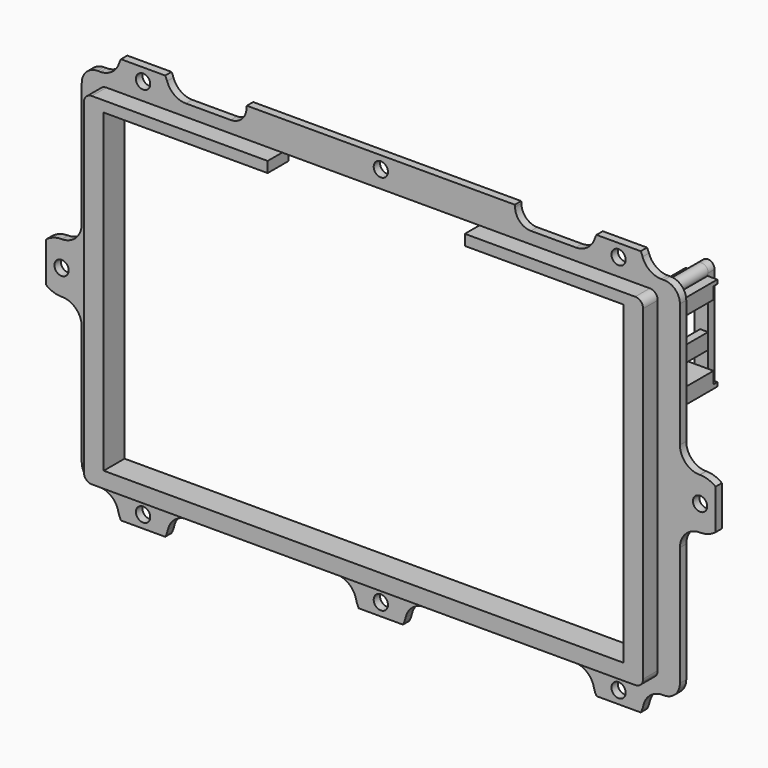
from build123d import *

# Parameters (mm, degrees)
F0_W      = 245.11
F0_H      = 152.4
F0_R      = 2.286
F1_DEPTH  = 2.54
F3_DEPTH  = 5.842
F4_W      = 245.11
F4_H      = 152.4
F5_DEPTH  = 25.4
F6_R      = 2.54
F7_W      = 258.2781612873
F7_H      = 175.8654415607
F7_W_2    = 214.5792
F7_H_2    = 130.1496
F8_DEPTH  = 8.383
F9_W      = 10.16
F9_H      = 3.81
F10_DEPTH = 13.462
F12_DEPTH = 14.986
F13_R     = 0.889
F14_DEPTH = 8.89
F15_R     = 0.889
F16_DEPTH = 2.54
F17_W     = 2.54
F17_H     = 5.08
F18_DEPTH = 10.16


with BuildPart() as f1:
    # F0 (on Front) → F1 (new body)
    with BuildSketch(Plane.XZ):
        Rectangle(F0_W, F0_H)
        with Locations((-76.2, -61.087)):
            Circle(F0_R, mode=Mode.SUBTRACT)
        with Locations((0, -61.087)):
            Circle(F0_R, mode=Mode.SUBTRACT)
        with Locations((76.2, -61.087)):
            Circle(F0_R, mode=Mode.SUBTRACT)
        with Locations((-102.32136, 0)):
            Circle(F0_R, mode=Mode.SUBTRACT)
        Polygon((82.3976, -48.9458), (-84.1502, -48.9458), (-84.1502, 52.1208), (-31.5976, 52.1208), (-31.5976, 55.5498), (31.5976, 55.5498), (31.5976, 52.1208), (82.3976, 52.1208), align=None, mode=Mode.SUBTRACT)
        with Locations((-76.2, 61.087)):
            Circle(F0_R, mode=Mode.SUBTRACT)
        with Locations((102.32136, 0)):
            Circle(F0_R, mode=Mode.SUBTRACT)
        with Locations((0, 61.087)):
            Circle(F0_R, mode=Mode.SUBTRACT)
        with Locations((76.2, 61.087)):
            Circle(F0_R, mode=Mode.SUBTRACT)
    extrude(amount=F1_DEPTH)

    # F2 (on face) → F3 (join)
    with BuildSketch(Plane.XZ.offset(2.54)):
        Polygon((-90.5002, -54.0258), (88.7476, -54.0258), (88.7476, 55.5498), (31.5976, 55.5498), (31.5976, 52.1208), (82.3976, 52.1208), (82.3976, -48.9458), (-84.1502, -48.9458), (-84.1502, 52.1208), (-31.5976, 52.1208), (-31.5976, 55.5498), (-90.5002, 55.5498), align=None)
    extrude(amount=F3_DEPTH)

    # F4 (on face) → F5 (cut)
    with BuildSketch(Plane.XZ.offset(2.54)):
        Rectangle(F4_W, F4_H)
        with BuildLine():
            ThreePointArc((-95.8596, 54.2798), (-94.3717024484, 57.8719024484), (-90.7796, 59.3598))
            Line((-90.7796, 59.3598), (-89.9201386349, 59.3598))
            ThreePointArc((-89.9201386349, 59.3598), (-86.2155741199, 60.5524070778), (-83.9025339705, 63.6822561404))
            ThreePointArc((-83.9025339705, 63.6822561404), (-76.2, 69.215), (-68.4974660295, 63.6822561404))
            ThreePointArc((-68.4974660295, 63.6822561404), (-66.1844258801, 60.5524070778), (-62.4798613651, 59.3598))
            Line((-62.4798613651, 59.3598), (-48.1076, 59.3598))
            ThreePointArc((-48.1076, 59.3598), (-44.5154975516, 60.8476975516), (-43.0276, 64.4398))
            ThreePointArc((-43.0276, 64.4398), (-42.2836512242, 66.2358512242), (-40.4876, 66.9798))
            Line((-40.4876, 66.9798), (8.6505254151, 66.9798))
            Line((8.6505254151, 66.9798), (40.4876, 66.9798))
            ThreePointArc((40.4876, 66.9798), (42.2836512242, 66.2358512242), (43.0276, 64.4398))
            ThreePointArc((43.0276, 64.4398), (44.5154975516, 60.8476975516), (48.1076, 59.3598))
            Line((48.1076, 59.3598), (62.4798613651, 59.3598))
            ThreePointArc((62.4798613651, 59.3598), (66.1844258801, 60.5524070778), (68.4974660295, 63.6822561404))
            ThreePointArc((68.4974660295, 63.6822561404), (76.2, 69.215), (83.9025339705, 63.6822561404))
            ThreePointArc((83.9025339705, 63.6822561404), (86.2155741199, 60.5524070778), (89.9201386349, 59.3598))
            Line((89.9201386349, 59.3598), (90.7796, 59.3598))
            ThreePointArc((90.7796, 59.3598), (94.3717024484, 57.8719024484), (95.8596, 54.2798))
            Line((95.8596, 54.2798), (95.8596, 14.4775686392))
            ThreePointArc((95.8596, 14.4775686392), (97.6933797922, 10.0136852363), (102.1355858376, 8.128))
            Line((102.1355858376, 8.128), (102.2836141624, 8.128))
            Line((102.2836141624, 8.128), (102.32136, 8.128))
            ThreePointArc((102.32136, 8.128), (110.44936, 0), (102.32136, -8.128))
            Line((102.32136, -8.128), (102.2836141624, -8.128))
            Line((102.2836141624, -8.128), (102.1355858376, -8.128))
            ThreePointArc((102.1355858376, -8.128), (97.6933797922, -10.0136852363), (95.8596, -14.4775686392))
            Line((95.8596, -14.4775686392), (95.8596, -52.7558))
            ThreePointArc((95.8596, -52.7558), (94.3717024484, -56.3479024484), (90.7796, -57.8358))
            Line((90.7796, -57.8358), (90.3424864349, -57.8358))
            ThreePointArc((90.3424864349, -57.8358), (86.3617785722, -59.2384305058), (84.1396415073, -62.826677193))
            ThreePointArc((84.1396415073, -62.826677193), (76.2, -69.215), (68.2603584927, -62.826677193))
            ThreePointArc((68.2603584927, -62.826677193), (66.0382214278, -59.2384305058), (62.0575135651, -57.8358))
            Line((62.0575135651, -57.8358), (14.1424864349, -57.8358))
            ThreePointArc((14.1424864349, -57.8358), (10.1617785722, -59.2384305058), (7.9396415073, -62.826677193))
            ThreePointArc((7.9396415073, -62.826677193), (0, -69.215), (-7.9396415073, -62.826677193))
            ThreePointArc((-7.9396415073, -62.826677193), (-10.1617785722, -59.2384305058), (-14.1424864349, -57.8358))
            Line((-14.1424864349, -57.8358), (-62.0575135651, -57.8358))
            ThreePointArc((-62.0575135651, -57.8358), (-66.0382214278, -59.2384305058), (-68.2603584927, -62.826677193))
            ThreePointArc((-68.2603584927, -62.826677193), (-76.2, -69.215), (-84.1396415073, -62.826677193))
            ThreePointArc((-84.1396415073, -62.826677193), (-86.3617785722, -59.2384305058), (-90.3424864349, -57.8358))
            Line((-90.3424864349, -57.8358), (-90.7796, -57.8358))
            ThreePointArc((-90.7796, -57.8358), (-94.3717024484, -56.3479024484), (-95.8596, -52.7558))
            Line((-95.8596, -52.7558), (-95.8596, -14.4775686392))
            ThreePointArc((-95.8596, -14.4775686392), (-97.6933797922, -10.0136852363), (-102.1355858376, -8.128))
            Line((-102.1355858376, -8.128), (-102.2836141624, -8.128))
            Line((-102.2836141624, -8.128), (-102.32136, -8.128))
            ThreePointArc((-102.32136, -8.128), (-110.44936, 0), (-102.32136, 8.128))
            Line((-102.32136, 8.128), (-102.2836141624, 8.128))
            Line((-102.2836141624, 8.128), (-102.1355858376, 8.128))
            ThreePointArc((-102.1355858376, 8.128), (-97.6933797922, 10.0136852363), (-95.8596, 14.4775686392))
            Line((-95.8596, 14.4775686392), (-95.8596, 54.2798))
        make_face(mode=Mode.SUBTRACT)
    extrude(amount=-F5_DEPTH, mode=Mode.SUBTRACT)

    # F6
    f6_edges = [f1.edges().sort_by_distance(p)[0] for p in [
        (-90.5002, -5.461, 55.5498),
        (-90.5002, -5.461, -54.0258),
        (88.7476, -5.461, 55.5498),
        (88.7476, -5.461, -54.0258),
    ]]
    fillet(f6_edges, radius=F6_R)

    # F7 (on Front) → F8 (cut, through all)
    with BuildSketch(Plane.XZ):
        Rectangle(F7_W, F7_H)
        Rectangle(F7_W_2, F7_H_2, mode=Mode.SUBTRACT)
    extrude(amount=F8_DEPTH, mode=Mode.SUBTRACT)

    # F9 (on face) → F10 (join)
    with BuildSketch(Plane(origin=(0, 0, 0), x_dir=(-1, 0, 0), z_dir=(0, 1, 0))):
        with Locations((-88.7476, 50.2158)):
            Rectangle(F9_W, F9_H)
        with Locations((-88.7476, 26.3398)):
            Rectangle(F9_W, F9_H)
    extrude(amount=F10_DEPTH)

    # F11 (on face) → F12 (join)
    with BuildSketch(Plane(origin=(0, 0, 0), x_dir=(-1, 0, 0), z_dir=(0, 1, 0))):
        with BuildLine():
            Line((-90.7150755399, 53.3908), (-93.8276, 53.3908))
            Line((-93.8276, 53.3908), (-93.8276, 52.1208))
            Line((-93.8276, 52.1208), (-88.7476, 52.1208))
            ThreePointArc((-88.7476, 52.1208), (-89.9184821461, 52.4658771792), (-90.7150755399, 53.3908))
        make_face()
        with BuildLine():
            ThreePointArc((-86.5886, 54.2798), (-89.2022984217, 56.3903758326), (-90.7150755399, 53.3908))
            Line((-90.7150755399, 53.3908), (-86.7801244601, 53.3908))
            ThreePointArc((-86.7801244601, 53.3908), (-86.6370241674, 53.8251015783), (-86.5886, 54.2798))
        make_face()
        with BuildLine():
            Line((-86.7801244601, 53.3908), (-90.7150755399, 53.3908))
            ThreePointArc((-90.7150755399, 53.3908), (-89.9184821461, 52.4658771792), (-88.7476, 52.1208))
            ThreePointArc((-88.7476, 52.1208), (-87.5767178539, 52.4658771792), (-86.7801244601, 53.3908))
        make_face()
        with BuildLine():
            Line((-83.6676, 53.3908), (-86.7801244601, 53.3908))
            ThreePointArc((-86.7801244601, 53.3908), (-87.5767178539, 52.4658771792), (-88.7476, 52.1208))
            Line((-88.7476, 52.1208), (-83.6676, 52.1208))
            Line((-83.6676, 52.1208), (-83.6676, 53.3908))
        make_face()
        with BuildLine():
            Line((-88.7476, 24.4348), (-93.8276, 24.4348))
            Line((-93.8276, 24.4348), (-93.8276, 23.1648))
            Line((-93.8276, 23.1648), (-90.7150755399, 23.1648))
            ThreePointArc((-90.7150755399, 23.1648), (-89.9184821461, 24.0897228208), (-88.7476, 24.4348))
        make_face()
        with BuildLine():
            Line((-83.6676, 24.4348), (-88.7476, 24.4348))
            ThreePointArc((-88.7476, 24.4348), (-87.5767178539, 24.0897228208), (-86.7801244601, 23.1648))
            Line((-86.7801244601, 23.1648), (-83.6676, 23.1648))
            Line((-83.6676, 23.1648), (-83.6676, 24.4348))
        make_face()
        with BuildLine():
            ThreePointArc((-86.7801244601, 23.1648), (-87.5767178539, 24.0897228208), (-88.7476, 24.4348))
            ThreePointArc((-88.7476, 24.4348), (-89.9184821461, 24.0897228208), (-90.7150755399, 23.1648))
            Line((-90.7150755399, 23.1648), (-86.7801244601, 23.1648))
        make_face()
        with BuildLine():
            ThreePointArc((-86.5886, 22.2758), (-86.6370241674, 22.7304984217), (-86.7801244601, 23.1648))
            Line((-86.7801244601, 23.1648), (-90.7150755399, 23.1648))
            ThreePointArc((-90.7150755399, 23.1648), (-89.2022984217, 20.1652241674), (-86.5886, 22.2758))
        make_face()
    extrude(amount=F12_DEPTH)

    # F13 (on face) → F14 (cut)
    with BuildSketch(Plane(origin=(0, 14.986, 0), x_dir=(-1, 0, 0), z_dir=(0, 1, 0))):
        with Locations((-88.7476, 54.2798)):
            Circle(F13_R)
        with Locations((-88.7476, 22.2758)):
            Circle(F13_R)
    extrude(amount=-F14_DEPTH, mode=Mode.SUBTRACT)

    # F17 (on face) → F18 (join)
    with BuildSketch(Plane(origin=(0, 0, 0), x_dir=(-1, 0, 0), z_dir=(0, 1, 0))):
        with Locations((-93.4466, 38.2778)):
            Rectangle(F17_W, F17_H)
        with Locations((-84.0486, 38.2778)):
            Rectangle(F17_W, F17_H)
    extrude(amount=F18_DEPTH)


with BuildPart() as f16:
    # F15 (on face) → F16 (new body)
    with BuildSketch(Plane(origin=(0, 14.986, 0), x_dir=(-1, 0, 0), z_dir=(0, 1, 0))):
        with BuildLine():
            Line((-86.5886, 22.2758), (-86.5886, 54.2798))
            ThreePointArc((-86.5886, 54.2798), (-88.7476, 56.4388), (-90.9066, 54.2798))
            Line((-90.9066, 54.2798), (-90.9066, 22.2758))
            ThreePointArc((-90.9066, 22.2758), (-88.7476, 20.1168), (-86.5886, 22.2758))
        make_face()
        with Locations((-88.7476, 22.2758)):
            Circle(F15_R, mode=Mode.SUBTRACT)
        with Locations((-88.7476, 54.2798)):
            Circle(F15_R, mode=Mode.SUBTRACT)
    extrude(amount=F16_DEPTH)


solid = Compound([f1.part, f16.part])
